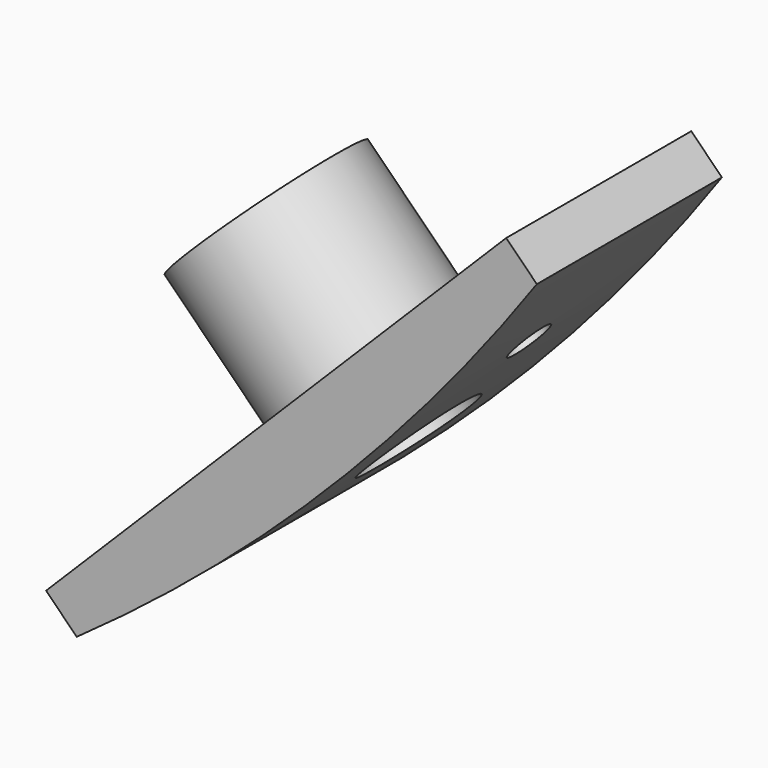
from build123d import *

# Parameters (mm, degrees)
F1_DEPTH = 16
F2_R     = 1.5
F2_R_2   = 4.1
F3_DEPTH = 25.501
F5_DEPTH = 1


with BuildPart() as f1:
    # F0 (on Front) → F1 (new body)
    with BuildSketch(Plane.XZ):
        with BuildLine():
            ThreePointArc((77.1384719389, -108.9582770923), (94.3987552884, -94.3987552884), (108.9582770923, -77.1384719389))
            Line((108.9582770923, -77.1384719389), (106.8369567488, -75.0171515954))
            Line((106.8369567488, -75.0171515954), (75.0171515954, -106.8369567488))
            Line((75.0171515954, -106.8369567488), (77.1384719389, -108.9582770923))
        make_face()
    extrude(amount=F1_DEPTH)

    # F2 (on face) → F3 (cut, through all)
    with BuildSketch(Plane(origin=(90.9270541721, 0, -90.9270541721), x_dir=(0, -1, 0), z_dir=(-0.7071067812, 0, 0.7071067812))):
        with Locations((8, 11.25)):
            Circle(F2_R)
        with Locations((8, 0)):
            Circle(F2_R_2)
        with Locations((8, -11.25)):
            Circle(F2_R)
    extrude(amount=-F3_DEPTH, mode=Mode.SUBTRACT)

    # F4 (on face) → F5 (cut)
    with BuildSketch(Plane(origin=(90.9270541721, 0, -90.9270541721), x_dir=(0, -1, 0), z_dir=(-0.7071067812, 0, 0.7071067812))):
        Polygon((7.5967662116, 8.100280037), (10.5261206085, 9.3259293141), (10.929354397, 12.475649277), (8.4032337884, 14.399719963), (5.4738793915, 13.1740706859), (5.070645603, 10.024350723), align=None)
        Polygon((5.070645603, -12.475649277), (7.5967662116, -14.399719963), (10.5261206085, -13.1740706859), (10.929354397, -10.024350723), (8.4032337884, -8.100280037), (5.4738793915, -9.3259293141), align=None)
    extrude(amount=-F5_DEPTH, mode=Mode.SUBTRACT)

    # F7 (on mid) → F8 (revolve)
    with BuildSketch(Plane.XZ.offset(8)):
        with BuildLine():
            Line((88.522891116, -79.1890816044), (88.1693377254, -79.542634995))
            add(Edge.make_bspline(
                [(88.1693377254, -79.542634995), (86.9168482293, -80.7951244911), (88.7321185884, -82.9338429826), (90.290658069, -84.4923824633)],
                knots=[0, 0, 0, 0, 5.3851648071, 5.3851648071, 5.3851648071, 5.3851648071], degree=3))
            Line((90.290658069, -84.4923824633), (93.8261919749, -88.0279163692))
            Line((93.8261919749, -88.0279163692), (95.5939589279, -86.2601494162))
            Line((95.5939589279, -86.2601494162), (88.522891116, -79.1890816044))
        make_face()
    revolve(axis=Axis((87.3915202661, -8, -87.3915202661), (-0.7071067812, 0, 0.7071067812)))


solid = f1.part
